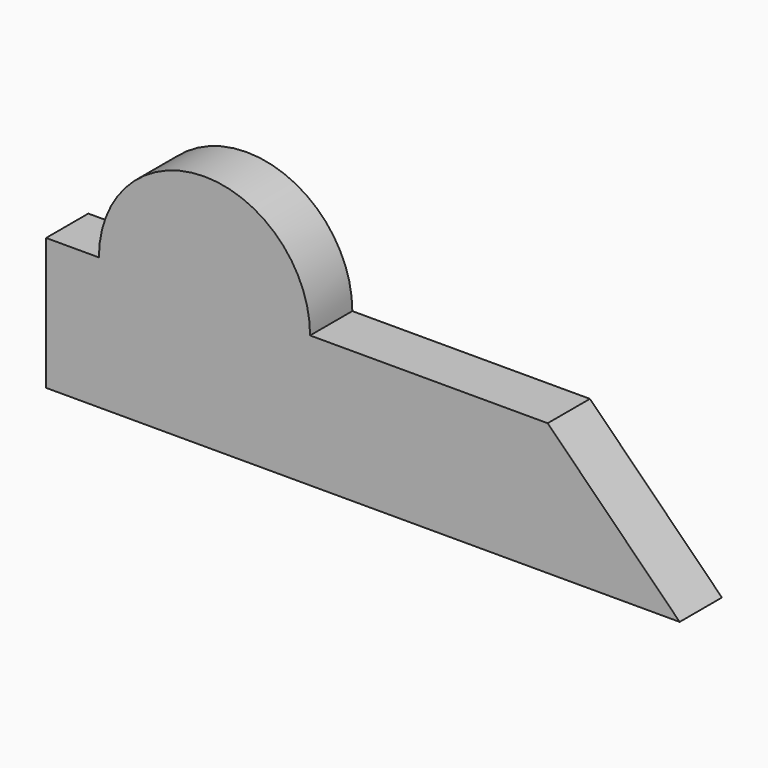
from build123d import *

# Parameters (mm, degrees)
F0_R     = 10
F1_DEPTH = 10


with BuildPart() as f1:
    # F0 (on Front) → F1 (new body)
    with BuildSketch(Plane.XZ):
        with BuildLine():
            Line((0, 25), (0, 0))
            Line((0, 0), (120, 0))
            Line((120, 0), (95, 25))
            Line((95, 25), (50, 25))
            ThreePointArc((50, 25), (30, 45), (10, 25))
            Line((10, 25), (0, 25))
        make_face()
        with Locations((30, 25)):
            Circle(F0_R, mode=Mode.SUBTRACT)
        with Locations((30, 25)):
            Circle(F0_R)
    extrude(amount=F1_DEPTH)


solid = f1.part
